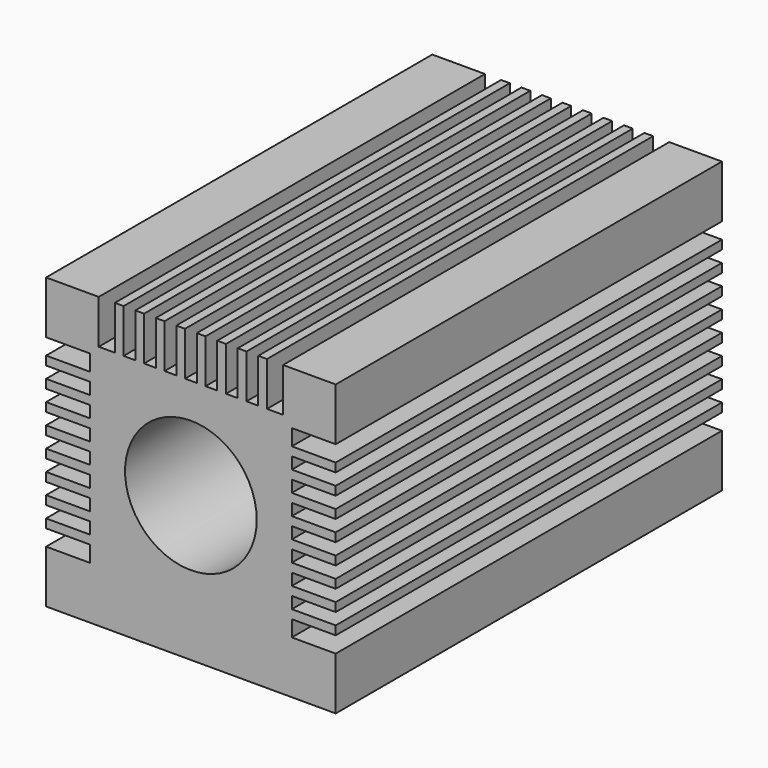
from build123d import *

# Parameters (mm, degrees)
F0_R     = 7.5
F0_W     = 5
F0_H     = 1
F1_DEPTH = 55


with BuildPart() as f1:
    # F0 (on Front) → F1 (new body)
    with BuildSketch(Plane.XZ):
        Polygon((0, 6), (0, 0), (33, 0), (33, 6), (28, 6), (28, 7.833333), (33, 7.833333), (33, 8.833333), (28, 8.833333), (28, 10.166667), (33, 10.166667), (33, 11.166667), (28, 11.166667), (28, 12.5), (33, 12.5), (33, 13.5), (28, 13.5), (28, 14.833333), (33, 14.833333), (33, 15.833333), (28, 15.833333), (28, 17.166667), (33, 17.166667), (33, 18.166667), (28, 18.166667), (28, 19.5), (33, 19.5), (33, 20.5), (28, 20.5), (28, 21.833333), (33, 21.833333), (33, 22.833333), (28, 22.833333), (28, 24.166667), (33, 24.166667), (33, 25.166667), (28, 25.166667), (28, 27), (33, 27), (33, 33), (27, 33), (27, 28), (25.166667, 28), (25.166667, 33), (24.166667, 33), (24.166667, 28), (22.833333, 28), (22.833333, 33), (21.833333, 33), (21.833333, 28), (20.5, 28), (20.5, 33), (19.5, 33), (19.5, 28), (18.166667, 28), (18.166667, 33), (17.166667, 33), (17.166667, 28), (15.833333, 28), (15.833333, 33), (14.833333, 33), (14.833333, 28), (13.5, 28), (13.5, 33), (12.5, 33), (12.5, 28), (11.166667, 28), (11.166667, 33), (10.166667, 33), (10.166667, 28), (8.833333, 28), (8.833333, 33), (7.833333, 33), (7.833333, 28), (6, 28), (6, 33), (0, 33), (0, 27), (5, 27), (5, 25.166667), (0, 25.166667), (0, 24.166667), (5, 24.166667), (5, 22.833333), (0, 22.833333), (0, 21.833333), (5, 21.833333), (5, 20.5), (0, 20.5), (0, 19.5), (5, 19.5), (5, 18.166667), (0, 18.166667), (0, 17.166667), (5, 17.166667), (5, 15.833333), (5, 14.833333), (5, 13.5), (0, 13.5), (0, 12.5), (5, 12.5), (5, 11.166667), (0, 11.166667), (0, 10.166667), (5, 10.166667), (5, 8.833333), (0, 8.833333), (0, 7.833333), (5, 7.833333), (5, 6), align=None)
        with Locations((16.5, 16.5)):
            Circle(F0_R, mode=Mode.SUBTRACT)
        with Locations((2.5, 15.333333)):
            Rectangle(F0_W, F0_H)
    extrude(amount=F1_DEPTH)


solid = f1.part
